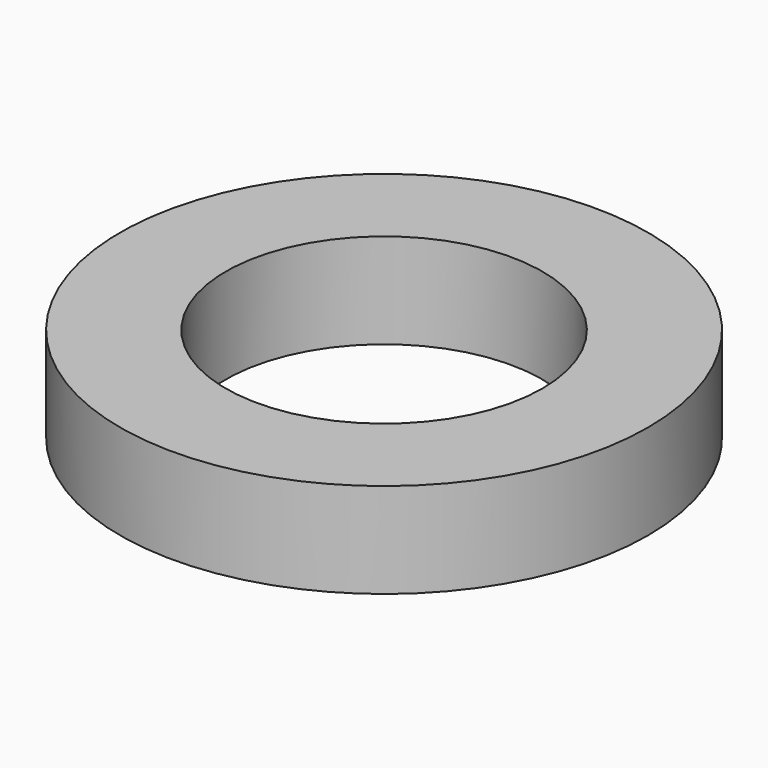
from build123d import *

# Parameters (mm, degrees)
SKETCH_R   = 2.5
SKETCH_R_2 = 1.5
PAD_DEPTH  = 0.9


with BuildPart() as part:
    # Sketch → Pad (new body)
    with BuildSketch(Plane.XY):
        Circle(SKETCH_R)
        Circle(SKETCH_R_2, mode=Mode.SUBTRACT)
    extrude(amount=PAD_DEPTH)


solid = part.part
